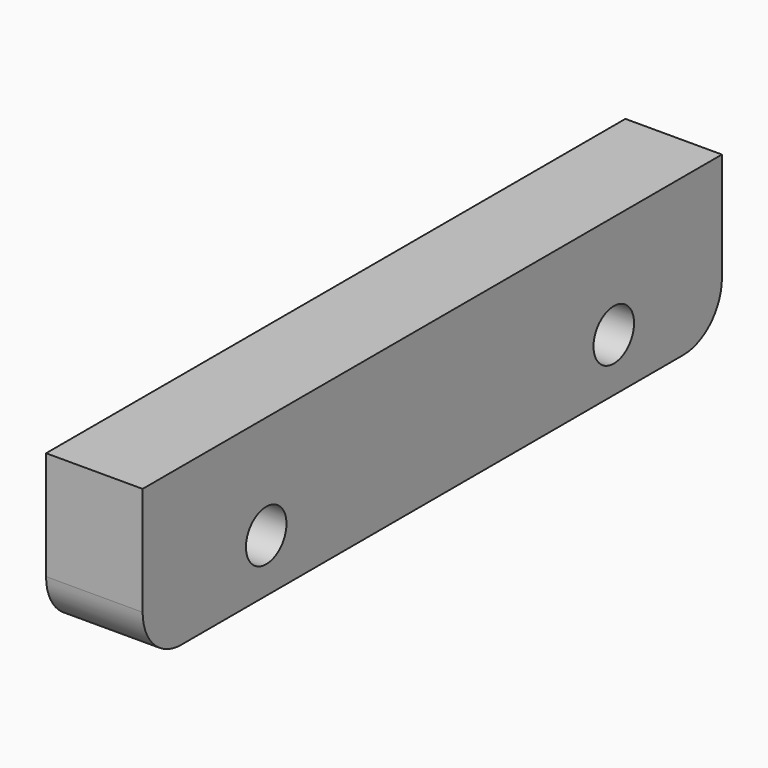
from build123d import *

# Parameters (mm, degrees)
SKETCH005_R      = 2.1
EXTRUDE004_DEPTH = 10
BOX011_W         = 8
BOX011_H         = 60
BOX011_DEPTH     = 13
FILLET007_R      = 4


with BuildPart() as obj1:
    # Sketch005 (on Face2 of Box011) → Extrude004 (new body)
    with BuildSketch(Plane(origin=(18.2, 17.6, -2.4), x_dir=(0, -1, 0), z_dir=(-1, 0, 0))):
        with Locations((3.8, 3.8)):
            Circle(SKETCH005_R)
        with Locations((39.8, 3.8)):
            Circle(SKETCH005_R)
    extrude(amount=EXTRUDE004_DEPTH)


with BuildPart() as obj2:
    # Box011 → Box011 (new body)
    with BuildSketch(Plane(origin=(10.2, -35, -3), x_dir=(1, 0, 0), z_dir=(0, 0, 1))):
        with Locations((4, 30)):
            Rectangle(BOX011_W, BOX011_H)
    extrude(amount=BOX011_DEPTH)

    # Fillet007
    fillet007_edges = [obj2.edges().sort_by_distance(p)[0] for p in [
        (14.2, -35, -3),
        (14.2, 25, -3),
    ]]
    fillet(fillet007_edges, radius=FILLET007_R)

    # Cut006: cut obj1
    add(obj1.part, mode=Mode.SUBTRACT)


solid = obj2.part
